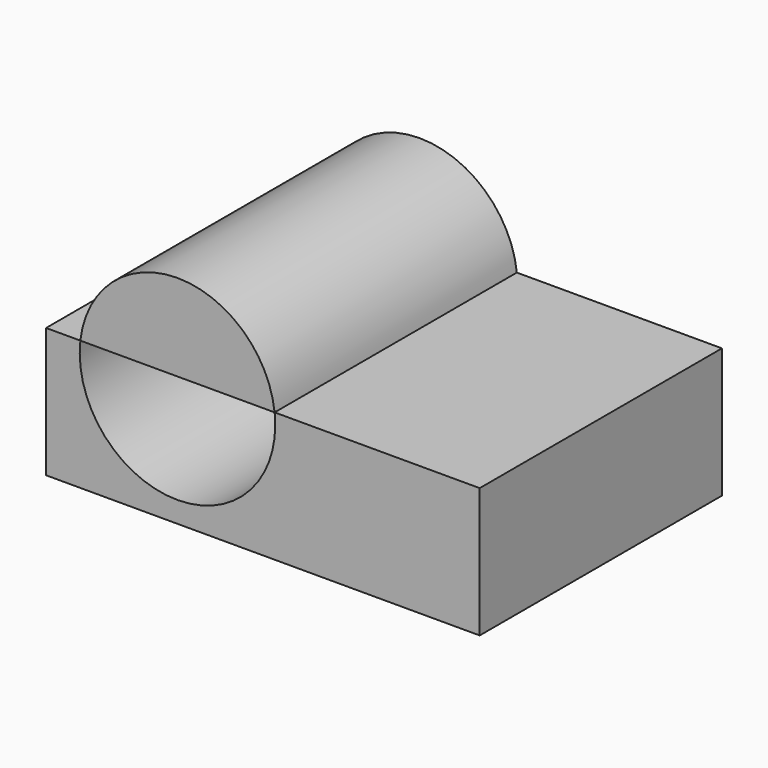
from build123d import *

# Parameters (mm, degrees)
F1_DEPTH = 89.439973


with BuildPart() as f1:
    # F0 (on Front) → F1 (new body)
    with BuildSketch(Plane.XZ):
        with BuildLine():
            ThreePointArc((10.68671, 21.963043), (10.823579, 20.344732), (10.86925, 18.721286))
            ThreePointArc((10.86925, 18.721286), (-19.630985, -10.109832), (-46.701788, 21.963043))
            Line((-46.701788, 21.963043), (-56.824684, 21.963043))
            Line((-56.824684, 21.963043), (-56.824684, -16.352577))
            Line((-56.824684, -16.352577), (71.268879, -16.352577))
            Line((71.268879, -16.352577), (71.268879, 21.963043))
            Line((71.268879, 21.963043), (10.68671, 21.963043))
        make_face()
        with BuildLine():
            Line((-46.701788, 21.963043), (10.68671, 21.963043))
            ThreePointArc((10.68671, 21.963043), (-18.007539, 47.598075), (-46.701788, 21.963043))
        make_face()
    extrude(amount=F1_DEPTH)


solid = f1.part
